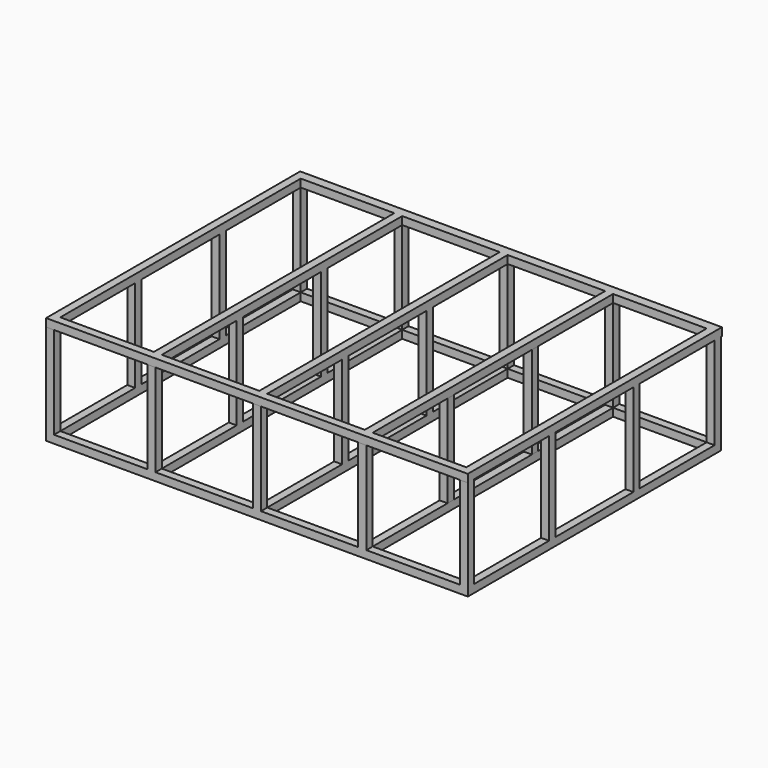
from build123d import *

# Parameters (mm, degrees)
F0_W     = 406.4
F0_H     = 304.8
F1_DEPTH = 7.62
F2_W     = 90.17
F2_H     = 289.56
F2_W_2   = 93.98
F3_DEPTH = 7.62
F4_W     = 7.62
F4_H     = 7.62
F4_W_2   = 7.950063
F5_DEPTH = 88.9
F6_W     = 406.4
F6_H     = 306.050569
F7_DEPTH = 7.62
F8_W     = 90.17
F8_H     = 289.56
F8_W_2   = 93.98
F9_DEPTH = 7.62


with BuildPart() as f1:
    # F0 (on Top) → F1 (new body)
    with BuildSketch(Plane.XY):
        with Locations((-203.2, 152.4)):
            Rectangle(F0_W, F0_H)
    extrude(amount=F1_DEPTH)

    # F2 (on face) → F3 (cut)
    with BuildSketch(Plane.XY.offset(7.62)):
        with Locations((-52.705, 152.4)):
            Rectangle(F2_W, F2_H)
        with Locations((-353.695, 152.4)):
            Rectangle(F2_W, F2_H)
        with Locations((-254, 152.4)):
            Rectangle(F2_W_2, F2_H)
        with Locations((-152.4, 152.4)):
            Rectangle(F2_W_2, F2_H)
    extrude(amount=-F3_DEPTH, mode=Mode.SUBTRACT)

    # F4 (on face) → F5 (join)
    with BuildSketch(Plane.XY.offset(7.62)):
        with Locations((-402.59, 3.81)):
            Rectangle(F4_W, F4_H)
        with Locations((-402.59, 300.99)):
            Rectangle(F4_W, F4_H)
        with Locations((-402.59, 203.2)):
            Rectangle(F4_W, F4_H)
        with Locations((-402.59, 101.6)):
            Rectangle(F4_W, F4_H)
        with Locations((-304.8, 3.81)):
            Rectangle(F4_W, F4_H)
        with Locations((-101.765031, 3.81)):
            Rectangle(F4_W_2, F4_H)
        with Locations((-3.81, 3.81)):
            Rectangle(F4_W, F4_H)
        with Locations((-3.81, 300.99)):
            Rectangle(F4_W, F4_H)
        with Locations((-101.765031, 300.99)):
            Rectangle(F4_W_2, F4_H)
        with Locations((-304.8, 300.99)):
            Rectangle(F4_W, F4_H)
        with Locations((-304.8, 101.6)):
            Rectangle(F4_W, F4_H)
        with Locations((-304.8, 203.2)):
            Rectangle(F4_W, F4_H)
        with Locations((-101.765031, 101.6)):
            Rectangle(F4_W_2, F4_H)
        with Locations((-101.765031, 203.2)):
            Rectangle(F4_W_2, F4_H)
        with Locations((-3.81, 203.2)):
            Rectangle(F4_W, F4_H)
        with Locations((-203.2, 3.81)):
            Rectangle(F4_W, F4_H)
        with Locations((-203.2, 101.6)):
            Rectangle(F4_W, F4_H)
        with Locations((-203.2, 203.2)):
            Rectangle(F4_W, F4_H)
        with Locations((-203.2, 300.99)):
            Rectangle(F4_W, F4_H)
        with Locations((-3.81, 101.6)):
            Rectangle(F4_W, F4_H)
    extrude(amount=F5_DEPTH)

    # F6 (on face) → F7 (join)
    with BuildSketch(Plane.XY.offset(96.52)):
        with Locations((-203.2, 153.025284)):
            Rectangle(F6_W, F6_H)
    extrude(amount=F7_DEPTH)

    # F8 (on face) → F9 (cut)
    with BuildSketch(Plane.XY.offset(104.14)):
        with Locations((-353.695, 152.4)):
            Rectangle(F8_W, F8_H)
        with Locations((-254, 152.4)):
            Rectangle(F8_W_2, F8_H)
        with Locations((-152.4, 152.4)):
            Rectangle(F8_W_2, F8_H)
        with Locations((-52.705, 152.4)):
            Rectangle(F8_W, F8_H)
    extrude(amount=-F9_DEPTH, mode=Mode.SUBTRACT)


solid = f1.part
